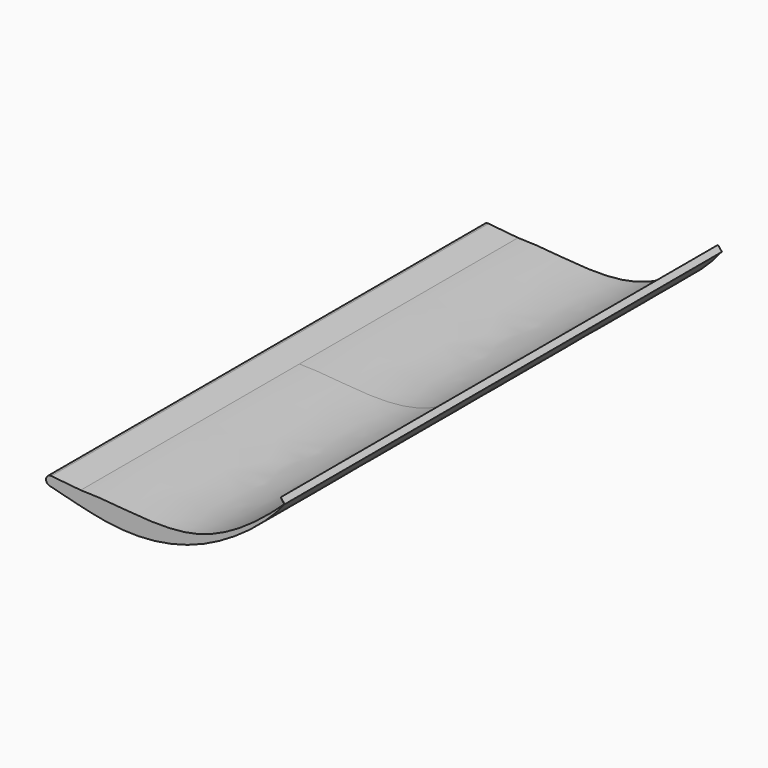
from build123d import *

# Parameters (mm, degrees)
F1_DEPTH = 63.5
F3_DEPTH = 63.5


with BuildPart() as f1:
    # F0 (on Front) → F1 (new body, symmetric)
    with BuildSketch(Plane.XZ):
        with BuildLine():
            Line((-57.9007938504, -13.7526644394), (-64.748907707, -13.0767928915))
            ThreePointArc((-64.748907707, -13.0767928915), (-65.9568088231, -14.0909499965), (-64.9153664708, -15.2754066512))
            add(Edge.make_bspline(
                [(-10.5699629883, -1.2151806246), (-14.0826247393, -5.9751178665), (-27.6857466292, -16.8338727076), (-47.6256841269, -20.2131886892), (-59.5803791582, -16.5795090755), (-64.9153664708, -15.2754066512)],
                knots=[0, 0, 0, 0, 0.3519722912, 0.6879148332, 1, 1, 1, 1], degree=3))
            add(Edge.make_bspline(
                [(-57.9007938504, -13.7526644394), (-49.3069887107, -13.7047512363), (-30.2741641227, -18.4993497812), (-14.9687040275, -5.3179887418), (-10.5699629883, -1.2151806246)],
                knots=[0, 0, 0, 0, 0.5178049827, 1, 1, 1, 1], degree=3))
        make_face()
    extrude(amount=F1_DEPTH, both=True)

    # F2 (on Front) → F3 (join, symmetric)
    with BuildSketch(Plane.XZ):
        Polygon((-11.4295762032, -0.1468062255), (-10.6219025329, -1.2395415688), (-10.5189634487, -1.2237048941), (-11.4295762032, -0.0834592647), align=None)
    extrude(amount=F3_DEPTH, both=True)


solid = f1.part
